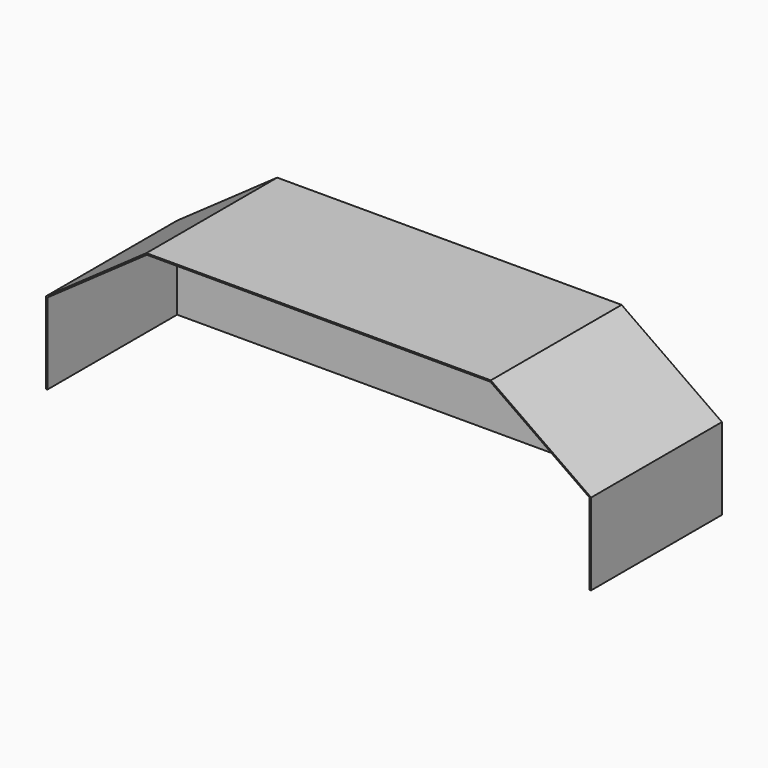
from build123d import *

# Parameters (mm, degrees)
F1_DEPTH = 304.8
F2_T     = -2.54


with BuildPart() as f1:
    # F0 (on Front) → F1 (new body)
    with BuildSketch(Plane.XZ):
        Polygon((-508, 152.4), (-508, 0), (508, 0), (508, 152.4), (321.014855, 283.908614), (-321.014855, 283.908614), align=None)
    extrude(amount=F1_DEPTH)

    # F2
    f2_openings = [f1.faces().sort_by_distance(p)[0] for p in [
        (0, -304.8, 132.810327),
        (0, -152.4, 0),
    ]]
    offset(amount=F2_T, openings=f2_openings)


solid = f1.part
